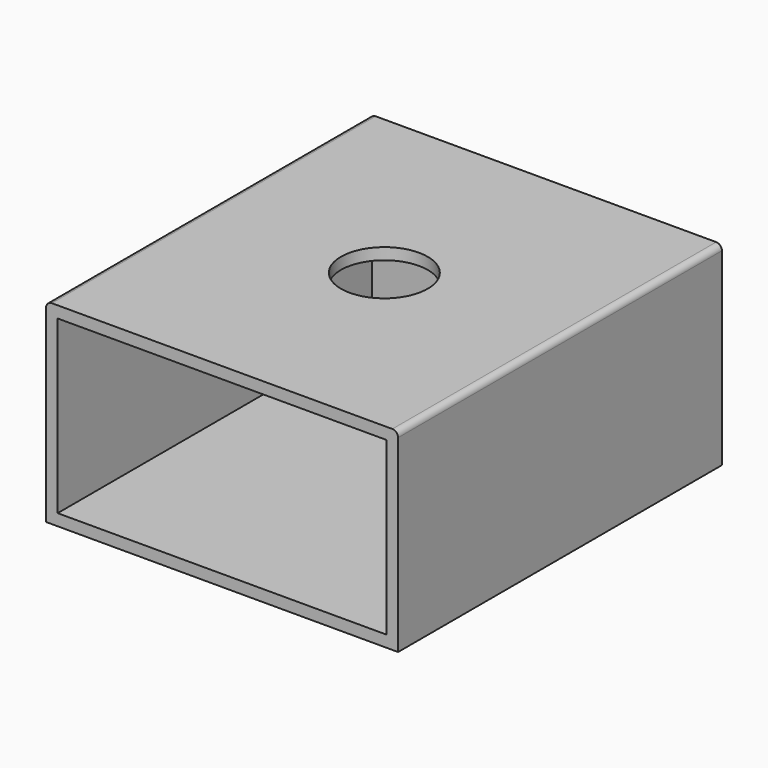
from build123d import *

# Parameters (mm, degrees)
F0_W     = 304.373444
F0_H     = 168.19302
F1_DEPTH = 175
F2_T     = -10
F4_D     = 75
F4_DEPTH = 12
F5_R     = 5


with BuildPart() as f1:
    # F0 (on Front) → F1 (new body, symmetric)
    with BuildSketch(Plane.XZ):
        with Locations((-0.291869, 0.29074)):
            Rectangle(F0_W, F0_H)
    extrude(amount=F1_DEPTH, both=True)

    # F2
    f2_openings = [f1.faces().sort_by_distance(p)[0] for p in [
        (-0.291869, -175, 0.29074),
    ]]
    offset(amount=F2_T, openings=f2_openings)

    # F4
    with Locations(Plane.XY.offset(84.38725)):
        with Locations((0, 0)):
            Hole(F4_D / 2, depth=F4_DEPTH)

    # F5
    f5_edges = [f1.edges().sort_by_distance(p)[0] for p in [
        (-152.478591, 0, 84.38725),
        (151.894853, 0, 84.38725),
    ]]
    fillet(f5_edges, radius=F5_R)


solid = f1.part
